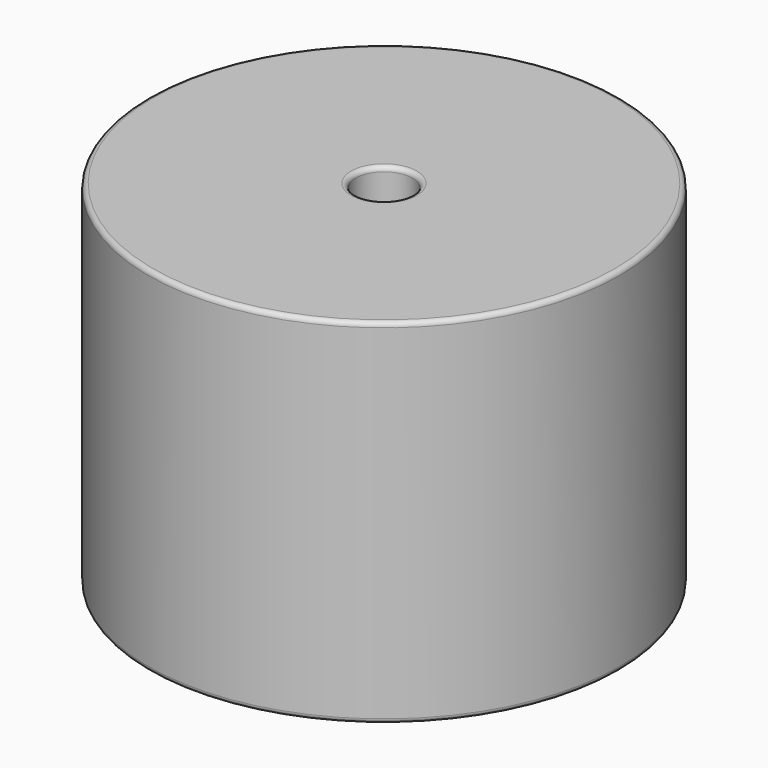
from build123d import *

# Parameters (mm, degrees)
SKETCH001_R       = 0.9
PAD001_DEPTH      = 19.05
PAD001_DEPTH_BACK = 3.5
SKETCH_R          = 25.4
SKETCH_R_2        = 3.05
PAD_DEPTH         = 38.1
FILLET_R          = 0.5


with BuildPart() as pad001:
    # Sketch001 → Pad001 (new body, two sides)
    with BuildSketch(Plane.XY.offset(0.5)) as pad001_sk:
        Circle(SKETCH001_R)
        with Locations((35.81, 0)):
            Circle(SKETCH001_R)
    extrude(amount=PAD001_DEPTH)
    extrude(pad001_sk.sketch, amount=-PAD001_DEPTH_BACK)


with BuildPart() as fillet_body:
    # Sketch → Pad (new body)
    with BuildSketch(Plane.XY.offset(0.1)):
        with Locations((17.905, 0)):
            Circle(SKETCH_R)
        with Locations((17.905, 0)):
            Circle(SKETCH_R_2, mode=Mode.SUBTRACT)
    extrude(amount=PAD_DEPTH)

    # Fillet
    fillet_edges = [fillet_body.edges().sort_by_distance(p)[0] for p in [
        (14.855, 0, 38.2),
        (-7.495, 0, 38.2),
        (-7.495, 0, 0.1),
    ]]
    fillet(fillet_edges, radius=FILLET_R)


solid = Compound([pad001.part, fillet_body.part])
